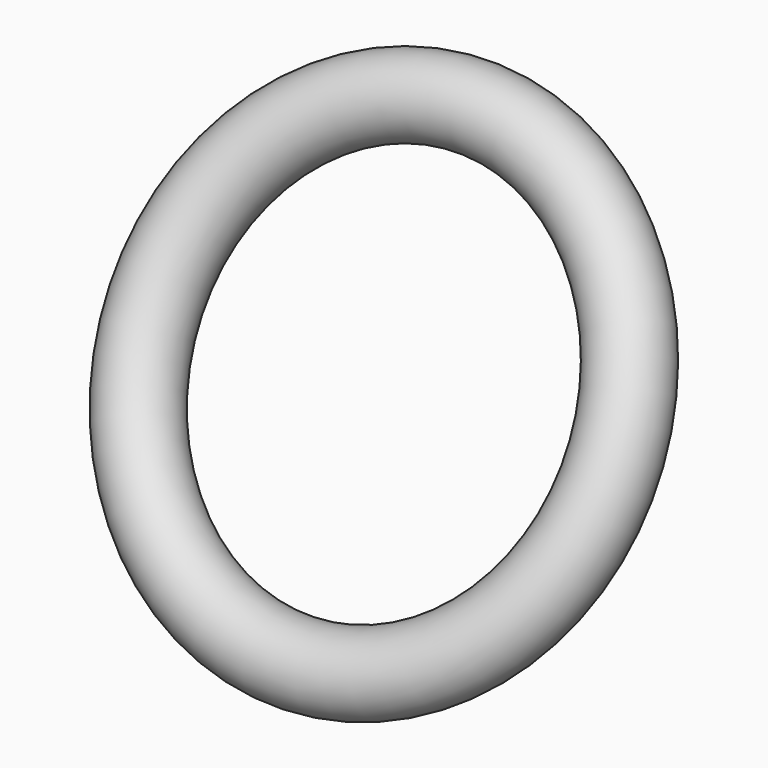
from build123d import *

# Parameters (mm, degrees)
F3_R = 25


with BuildPart() as f4:
    # F3 (on line) → F4 (revolve)
    with BuildSketch(Plane(origin=(0, 0, 0), x_dir=(1, 0, 0), z_dir=(0, -0.5, -0.8660254038))):
        with Locations((-150, 0)):
            Circle(F3_R)
    revolve(axis=Axis((0, -3.9080428883, 2.2563096136), (0, 0.8660254038, -0.5)))


solid = f4.part
